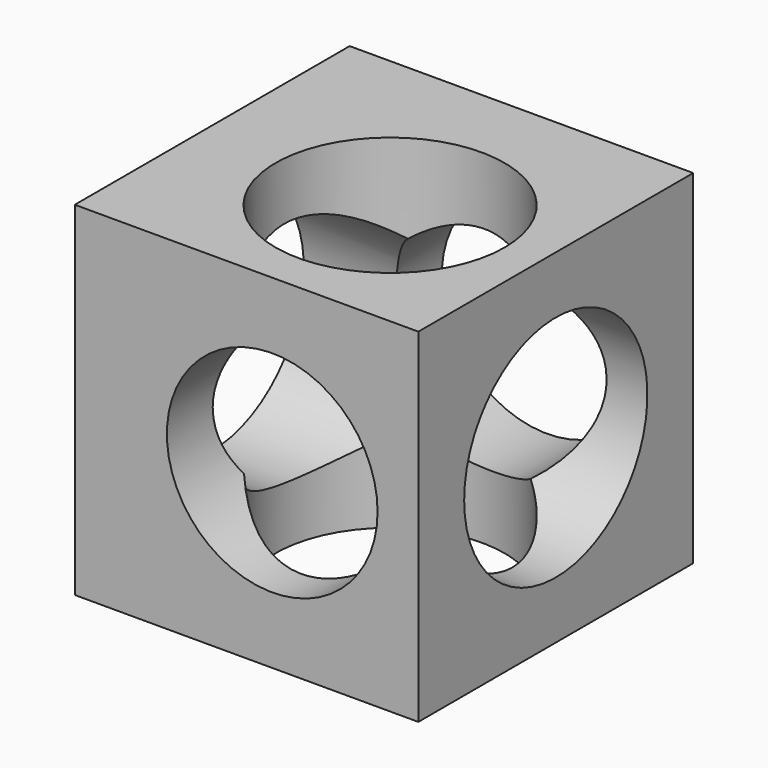
from build123d import *

# Parameters (mm, degrees)
F0_W     = 76.2
F0_H     = 76.2
F1_DEPTH = 38.1
F2_R     = 25.4
F3_DEPTH = 76.201
F4_R     = 25.4
F5_DEPTH = 76.201
F6_R     = 23.363243
F7_DEPTH = 76.201


with BuildPart() as f1:
    # F0 (on Front) → F1 (new body, symmetric)
    with BuildSketch(Plane.XZ):
        Rectangle(F0_W, F0_H)
    extrude(amount=F1_DEPTH, both=True)

    # F2 (on face) → F3 (cut, through all)
    with BuildSketch(Plane(origin=(0, 0, -38.1), x_dir=(1, 0, 0), z_dir=(0, 0, -1))):
        with Locations((4.652641, 4.136657)):
            Circle(F2_R)
    extrude(amount=-F3_DEPTH, mode=Mode.SUBTRACT)

    # F4 (on face) → F5 (cut, through all)
    with BuildSketch(Plane(origin=(-38.1, 0, 0), x_dir=(0, -1, 0), z_dir=(-1, 0, 0))):
        Circle(F4_R)
    extrude(amount=-F5_DEPTH, mode=Mode.SUBTRACT)

    # F6 (on face) → F7 (cut, through all)
    with BuildSketch(Plane.XZ.offset(38.1)):
        with Locations((5.691153, 0)):
            Circle(F6_R)
    extrude(amount=-F7_DEPTH, mode=Mode.SUBTRACT)


solid = f1.part
